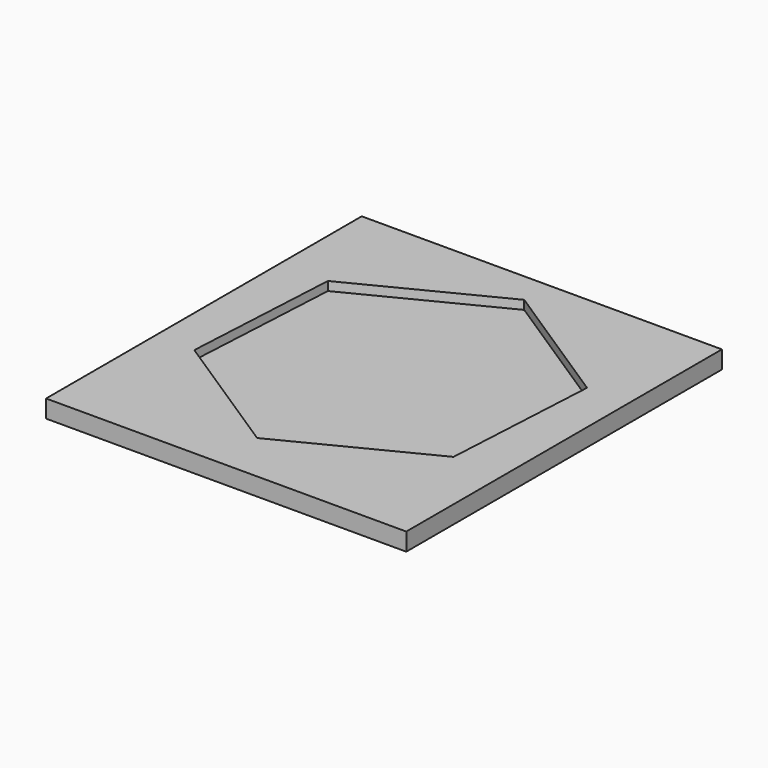
from build123d import *

# Parameters (mm, degrees)
SKETCH_W     = 202.943428
SKETCH_H     = 222.30317
PAD_DEPTH    = 10
POCKET_DEPTH = 5


with BuildPart() as part:
    # Sketch → Pad (new body)
    with BuildSketch(Plane.XY):
        with Locations((0.67812, -5.551548)):
            Rectangle(SKETCH_W, SKETCH_H)
    extrude(amount=PAD_DEPTH)

    # Sketch001 (on Face6 of Pad) → Pocket (cut)
    with BuildSketch(Plane.XY.offset(10)):
        Polygon((73.933594, -48.176704), (78.689047, 39.940019), (4.755453, 88.116723), (-73.933594, 48.176704), (-78.689047, -39.940019), (-4.755453, -88.116723), align=None)
    extrude(amount=-POCKET_DEPTH, mode=Mode.SUBTRACT)


solid = part.part
